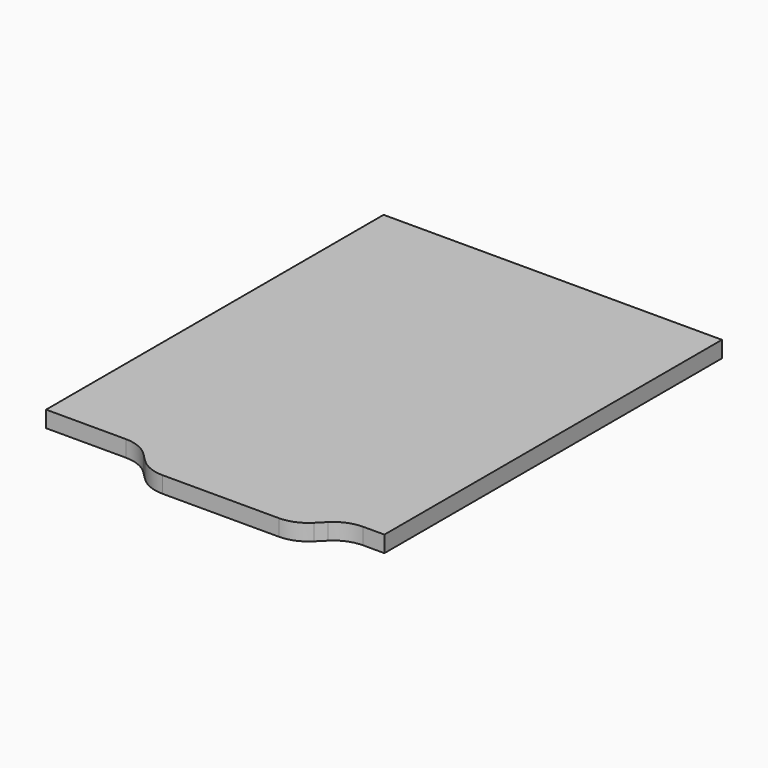
from build123d import *

# Parameters (mm, degrees)
F1_DEPTH = 2.794


with BuildPart() as f1:
    # F0 (on Top) → F1 (new body)
    with BuildSketch(Plane.XY):
        with BuildLine():
            Line((28.872332, 48.131657), (-28.872332, 48.131657))
            Line((-28.872332, 48.131657), (-28.872332, -23.877219))
            Line((-28.872332, -23.877219), (-15.260226, -23.877219))
            ThreePointArc((-15.260226, -23.877219), (-12.830186, -24.360584), (-10.770098, -25.737091))
            Line((-10.770098, -25.737091), (-9.409842, -27.097347))
            ThreePointArc((-9.409842, -27.097347), (-7.349754, -28.473854), (-4.919714, -28.957219))
            Line((-4.919714, -28.957219), (14.908431, -28.957219))
            ThreePointArc((14.908431, -28.957219), (17.338471, -28.473854), (19.398559, -27.097347))
            Line((19.398559, -27.097347), (20.758815, -25.737091))
            ThreePointArc((20.758815, -25.737091), (22.818903, -24.360584), (25.248943, -23.877219))
            Line((25.248943, -23.877219), (28.872332, -23.877219))
            Line((28.872332, -23.877219), (28.872332, 48.131657))
        make_face()
    extrude(amount=F1_DEPTH)


solid = f1.part
